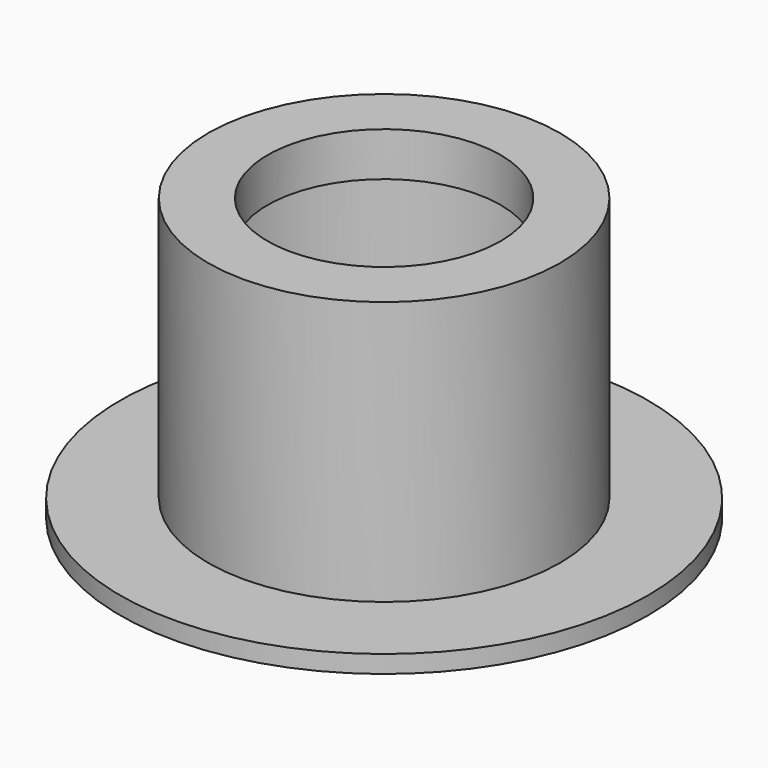
from build123d import *

# Parameters (mm, degrees)
F0_R     = 20
F0_R_2   = 13.25
F1_DEPTH = 5
F2_R     = 20
F2_R_2   = 18
F3_DEPTH = 25
F4_R     = 30
F4_R_2   = 18
F5_DEPTH = 2


with BuildPart() as f1:
    # F0 (on Top) → F1 (new body)
    with BuildSketch(Plane.XY):
        Circle(F0_R)
        Circle(F0_R_2, mode=Mode.SUBTRACT)
    extrude(amount=-F1_DEPTH)

    # F2 (on face) → F3 (join)
    with BuildSketch(Plane(origin=(0, 0, -5), x_dir=(1, 0, 0), z_dir=(0, 0, -1))):
        Circle(F2_R)
        Circle(F2_R_2, mode=Mode.SUBTRACT)
    extrude(amount=F3_DEPTH)

    # F4 (on face) → F5 (join)
    with BuildSketch(Plane(origin=(0, 0, -30), x_dir=(1, 0, 0), z_dir=(0, 0, -1))):
        Circle(F4_R)
        Circle(F4_R_2, mode=Mode.SUBTRACT)
    extrude(amount=F5_DEPTH)


solid = f1.part
